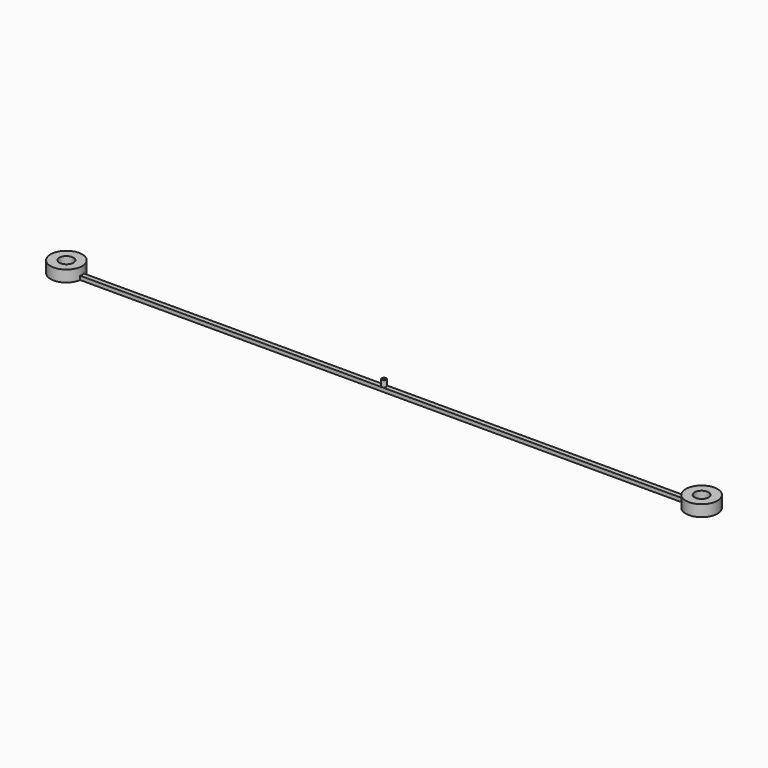
from build123d import *

# Parameters (mm, degrees)
CYLINDER144_R     = 0.8
CYLINDER144_DEPTH = 10
CYLINDER136_R     = 0.2
CYLINDER136_DEPTH = 9
CYLINDER_R        = 1.1
CYLINDER_DEPTH    = 4
CYLINDER139_R     = 1.1
CYLINDER139_DEPTH = 4
CYLINDER138_R     = 0.165
CYLINDER138_DEPTH = 8
CYLINDER143_R     = 0.8
CYLINDER143_DEPTH = 10
CYLINDER142_R     = 2.5
CYLINDER142_DEPTH = 1.8
CYLINDER141_R     = 2.5
CYLINDER141_DEPTH = 1.8
CYLINDER140_R     = 0.35
CYLINDER140_DEPTH = 1
BOX_W             = 100
BOX_H             = 0.75
BOX_DEPTH         = 0.6


with BuildPart() as cylinder001:
    # Cylinder144 → Cylinder144 (new body)
    with BuildSketch(Plane(origin=(6.3, -2.8, -1), x_dir=(1, 0, 0), z_dir=(0, 0, 1))):
        Circle(CYLINDER144_R)
    extrude(amount=CYLINDER144_DEPTH)


with BuildPart() as bowtienozzle:
    # Cylinder136 → Cylinder136 (new body)
    with BuildSketch(Plane.XY):
        Circle(CYLINDER136_R)
    extrude(amount=CYLINDER136_DEPTH)


with BuildPart() as mountinghole1:
    # Cylinder → Cylinder (new body)
    with BuildSketch(Plane(origin=(-50, 0, -1), x_dir=(1, 0, 0), z_dir=(0, 0, 1))):
        Circle(CYLINDER_R)
    extrude(amount=CYLINDER_DEPTH)


with BuildPart() as mountinghole2:
    # Cylinder139 → Cylinder139 (new body)
    with BuildSketch(Plane(origin=(50, 0, -1), x_dir=(1, 0, 0), z_dir=(0, 0, 1))):
        Circle(CYLINDER139_R)
    extrude(amount=CYLINDER139_DEPTH)


with BuildPart() as fusion001:
    # Cylinder138 → Cylinder138 (new body)
    with BuildSketch(Plane(origin=(0, 0, 0), x_dir=(1, 0, 0), z_dir=(0, 1, 0))):
        Circle(CYLINDER138_R)
    extrude(amount=CYLINDER138_DEPTH)

    # Fusion001: union BowTieNozzle, MountingHole1, MountingHole2
    add(bowtienozzle.part)
    add(mountinghole1.part)
    add(mountinghole2.part)


with BuildPart() as fusion003:
    # Cylinder143 → Cylinder143 (new body)
    with BuildSketch(Plane(origin=(-6.3, -2.8, -1), x_dir=(1, 0, 0), z_dir=(0, 0, 1))):
        Circle(CYLINDER143_R)
    extrude(amount=CYLINDER143_DEPTH)

    # Fusion003: union Cylinder001, Fusion001
    add(cylinder001.part)
    add(fusion001.part)


with BuildPart() as obj1:
    # Cylinder142 → Cylinder142 (new body)
    with BuildSketch(Plane(origin=(50, 0, -0.3), x_dir=(1, 0, 0), z_dir=(0, 0, 1))):
        Circle(CYLINDER142_R)
    extrude(amount=CYLINDER142_DEPTH)


with BuildPart() as obj2:
    # Cylinder141 → Cylinder141 (new body)
    with BuildSketch(Plane(origin=(-50, 0, -0.3), x_dir=(1, 0, 0), z_dir=(0, 0, 1))):
        Circle(CYLINDER141_R)
    extrude(amount=CYLINDER141_DEPTH)


with BuildPart() as nozzle_od:
    # Cylinder140 → Cylinder140 (new body)
    with BuildSketch(Plane.XY.offset(0.3)):
        Circle(CYLINDER140_R)
    extrude(amount=CYLINDER140_DEPTH)


with BuildPart() as cut004:
    # Box → Box (new body)
    with BuildSketch(Plane(origin=(-50, -0.375, -0.3), x_dir=(1, 0, 0), z_dir=(0, 0, 1))):
        with Locations((50, 0.375)):
            Rectangle(BOX_W, BOX_H)
    extrude(amount=BOX_DEPTH)

    # Fusion: union obj1, obj2, Nozzle_OD
    add(obj1.part)
    add(obj2.part)
    add(nozzle_od.part)

    # Cut004: cut Fusion003
    add(fusion003.part, mode=Mode.SUBTRACT)


with BuildPart() as cut004_1:
    # Cut004 placement: moved
    add(cut004.part.moved(Location((0, 10, 0))))


solid = cut004_1.part
